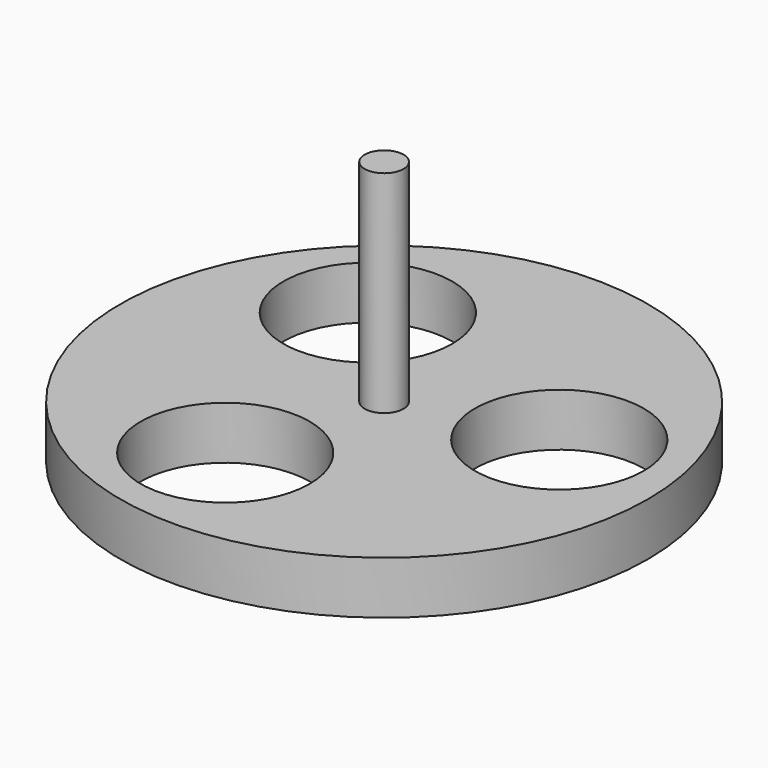
from build123d import *

# Parameters (mm, degrees)
F0_R     = 31.75
F2_DEPTH = 6.35
F1_R     = 10.16
F3_DEPTH = 25.4
F4_R     = 2.336661
F5_DEPTH = 25.4


with BuildPart() as f2:
    # F0 (on Top) → F2 (new body)
    with BuildSketch(Plane.XY):
        Circle(F0_R)
    extrude(amount=F2_DEPTH)

    # F1 (on face) → F3 (cut)
    with BuildSketch(Plane.XY):
        with Locations((-5.168118, -17.430304)):
            Circle(F1_R)
        with Locations((17.679145, 4.23943)):
            Circle(F1_R)
        with Locations((-12.511027, 13.190874)):
            Circle(F1_R)
    extrude(amount=F3_DEPTH, mode=Mode.SUBTRACT)

    # F4 (on face) → F5 (join)
    with BuildSketch(Plane.XY.offset(6.35)):
        Circle(F4_R)
    extrude(amount=F5_DEPTH)


solid = f2.part
